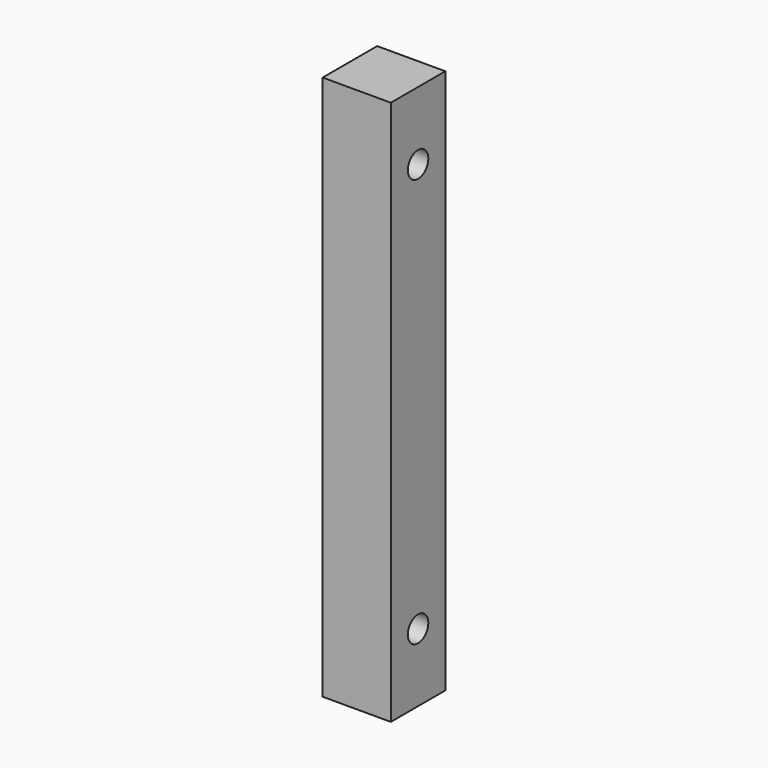
from build123d import *

# Parameters (mm, degrees)
F0_W     = 25.4
F0_H     = 203.2
F0_R     = 4.7625
F1_DEPTH = 25.4


with BuildPart() as f1:
    # F0 (on Right) → F1 (new body)
    with BuildSketch(Plane.YZ):
        Rectangle(F0_W, F0_H)
        with Locations((0, -76.2)):
            Circle(F0_R, mode=Mode.SUBTRACT)
        with Locations((0, 76.2)):
            Circle(F0_R, mode=Mode.SUBTRACT)
    extrude(amount=F1_DEPTH)


solid = f1.part
